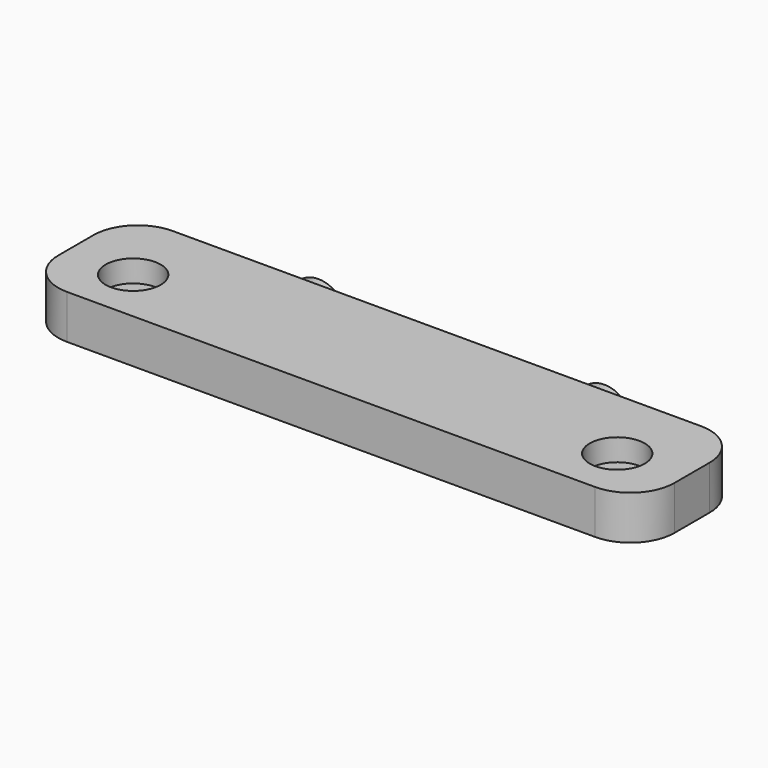
from build123d import *

# Parameters (mm, degrees)
F0_R     = 1.524
F1_DEPTH = 5.08
F2_ANGLE = 180
F3_ANGLE = 180
F4_R     = 3.175
F4_R_2   = 1.524
F5_DEPTH = 2.54
F6_R     = 5.08


with BuildPart() as f1:
    # F0 (on Top) → F1 (new body)
    with BuildSketch(Plane.XY):
        Polygon((0, 15.24), (0, 0), (71.12, 0), (71.12, 15.24), (53.0225, 15.24), (52.07, 15.24), (20.0025, 15.24), (19.05, 15.24), align=None)
        with Locations((7.62, 6.35)):
            Circle(F0_R, mode=Mode.SUBTRACT)
        with Locations((63.5, 6.35)):
            Circle(F0_R, mode=Mode.SUBTRACT)
    extrude(amount=F1_DEPTH)

    # F0 (on Top) → F2 (revolve)
    with BuildSketch(Plane.XY):
        Polygon((19.05, 18.796), (19.05, 15.24), (20.0025, 15.24), (20.0025, 17.78), (22.352, 17.78), (22.352, 18.796), align=None)
    revolve(axis=Axis((19.05, 5.626085, 0), (0, -1, 0)), revolution_arc=F2_ANGLE)

    # F0 (on Top) → F3 (revolve)
    with BuildSketch(Plane.XY):
        Polygon((52.07, 15.24), (53.0225, 15.24), (53.0225, 17.78), (55.372, 17.78), (55.372, 18.796), (52.07, 18.796), align=None)
    revolve(axis=Axis((52.07, 5.626085, 0), (0, -1, 0)), revolution_arc=F3_ANGLE)

    # F4 (on face) → F5 (cut)
    with BuildSketch(Plane.XY.offset(5.08)):
        with Locations((7.62, 6.35)):
            Circle(F4_R)
        with Locations((7.62, 6.35)):
            Circle(F4_R_2, mode=Mode.SUBTRACT)
        with Locations((63.5, 6.35)):
            Circle(F4_R)
        with Locations((63.5, 6.35)):
            Circle(F4_R_2, mode=Mode.SUBTRACT)
    extrude(amount=-F5_DEPTH, mode=Mode.SUBTRACT)

    # F6
    f6_edges = [f1.edges().sort_by_distance(p)[0] for p in [
        (71.12, 15.24, 2.54),
        (71.12, 0, 2.54),
        (0, 15.24, 2.54),
        (0, 0, 2.54),
    ]]
    fillet(f6_edges, radius=F6_R)


solid = f1.part
